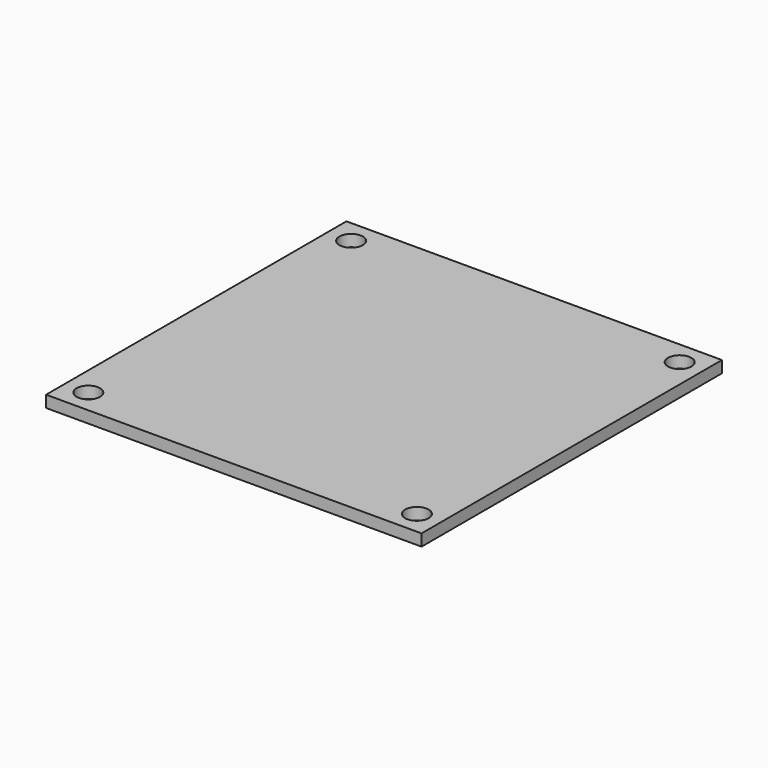
from build123d import *

# Parameters (mm, degrees)
F0_W     = 203.2
F0_H     = 203.2
F1_DEPTH = 6.35
F3_D     = 12.7


with BuildPart() as f1:
    # F0 (on Top) → F1 (new body)
    with BuildSketch(Plane.XY):
        with Locations((101.6, 101.6)):
            Rectangle(F0_W, F0_H)
    extrude(amount=F1_DEPTH)

    # F3 (through all)
    with Locations(Plane.XY.offset(6.35)):
        with Locations((12.7, 190.5), (12.7, 12.7), (190.5, 12.7), (190.5, 190.5)):
            Hole(F3_D / 2)


solid = f1.part
